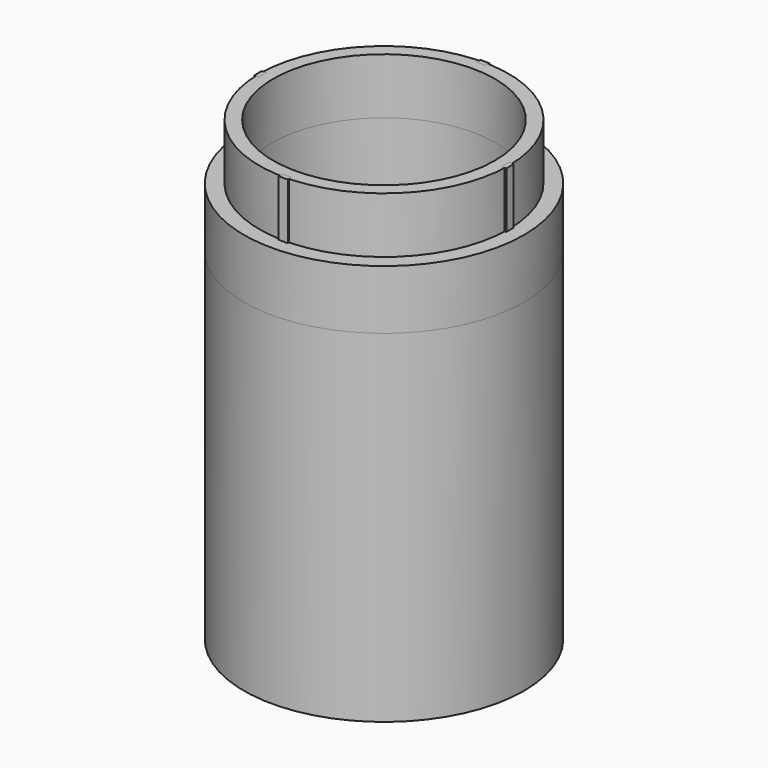
from build123d import *

# Parameters (mm, degrees)
F0_R      = 13.35
F0_R_2    = 11.875
F1_DEPTH  = 6
F2_R      = 15
F2_R_2    = 13.5
F3_DEPTH  = 43
F4_R      = 15
F4_R_2    = 11.875
F5_DEPTH  = 6.35
F7_W      = 1
F7_H      = 6
F8_DEPTH  = 0.5
F10_W     = 1
F10_H     = 6
F11_DEPTH = 0.5
F13_W     = 1
F13_H     = 6
F14_DEPTH = 0.5
F16_W     = 1
F16_H     = 6
F17_DEPTH = 0.5


with BuildPart() as f1:
    # F0 (on Top) → F1 (new body)
    with BuildSketch(Plane.XY):
        Circle(F0_R)
        Circle(F0_R_2, mode=Mode.SUBTRACT)
    extrude(amount=F1_DEPTH)


with BuildPart() as f3:
    # F2 (on Top) → F3 (new body)
    with BuildSketch(Plane.XY):
        Circle(F2_R)
        Circle(F2_R_2, mode=Mode.SUBTRACT)
    extrude(amount=-F3_DEPTH)


with BuildPart() as f5:
    # F4 (on Top) → F5 (new body)
    with BuildSketch(Plane.XY):
        Circle(F4_R)
        Circle(F4_R_2, mode=Mode.SUBTRACT)
    extrude(amount=-F5_DEPTH)


with BuildPart() as f8:
    # F7 (on offset) → F8 (new body)
    with BuildSketch(Plane.YZ.offset(13)):
        with Locations((0, 3)):
            Rectangle(F7_W, F7_H)
    extrude(amount=F8_DEPTH)


with BuildPart() as f11:
    # F10 (on offset) → F11 (new body)
    with BuildSketch(Plane.YZ.offset(-13)):
        with Locations((0, 3)):
            Rectangle(F10_W, F10_H)
    extrude(amount=-F11_DEPTH)


with BuildPart() as f14:
    # F13 (on offset) → F14 (new body)
    with BuildSketch(Plane.XZ.offset(-13)):
        with Locations((0, 3)):
            Rectangle(F13_W, F13_H)
    extrude(amount=-F14_DEPTH)


with BuildPart() as f17:
    # F16 (on offset) → F17 (new body)
    with BuildSketch(Plane.XZ.offset(13)):
        with Locations((0, 3)):
            Rectangle(F16_W, F16_H)
    extrude(amount=F17_DEPTH)


solid = Compound([f1.part, f3.part, f5.part, f8.part, f11.part, f14.part, f17.part])
